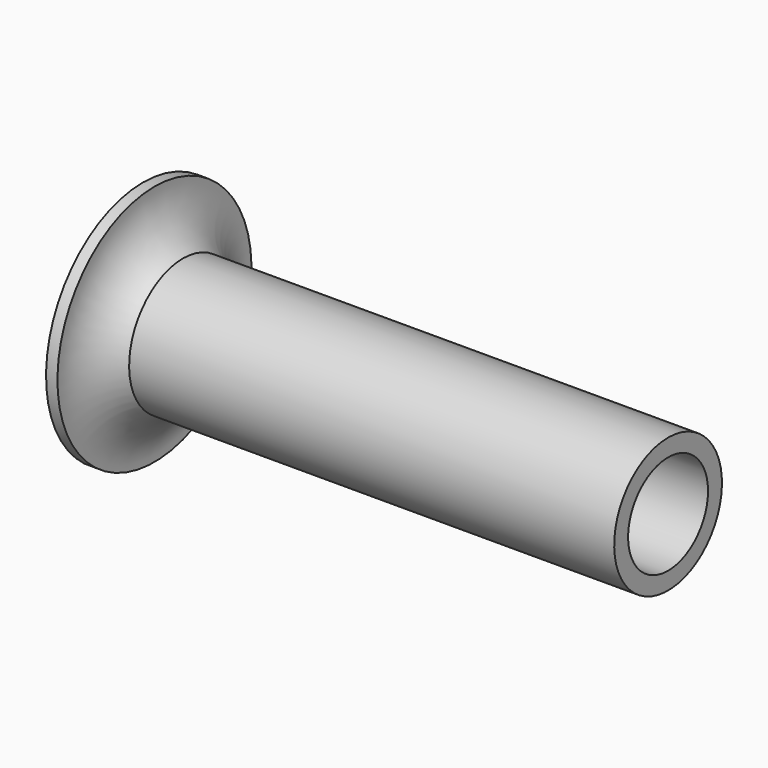
from build123d import *

# Parameters (mm, degrees)
F2_R     = 11.1125
F3_DEPTH = 116.841


with BuildPart() as f1:
    # F0 (on Front) → F1 (revolve)
    with BuildSketch(Plane.XZ):
        with BuildLine():
            Line((0, 0), (0, 14.986))
            Line((0, 14.986), (-107.95, 14.986))
            ThreePointArc((-107.95, 14.986), (-112.863507, 20.066905), (-114.3, 26.9875))
            Line((-114.3, 26.9875), (-116.84, 26.9875))
            Line((-116.84, 26.9875), (-116.84, 0))
            Line((-116.84, 0), (0, 0))
        make_face()
    revolve(axis=Axis((-97.301879, 0, 0), (-1, 0, 0)))

    # F2 (on face) → F3 (cut, through all)
    with BuildSketch(Plane.YZ):
        Circle(F2_R)
    extrude(amount=-F3_DEPTH, mode=Mode.SUBTRACT)


solid = f1.part
